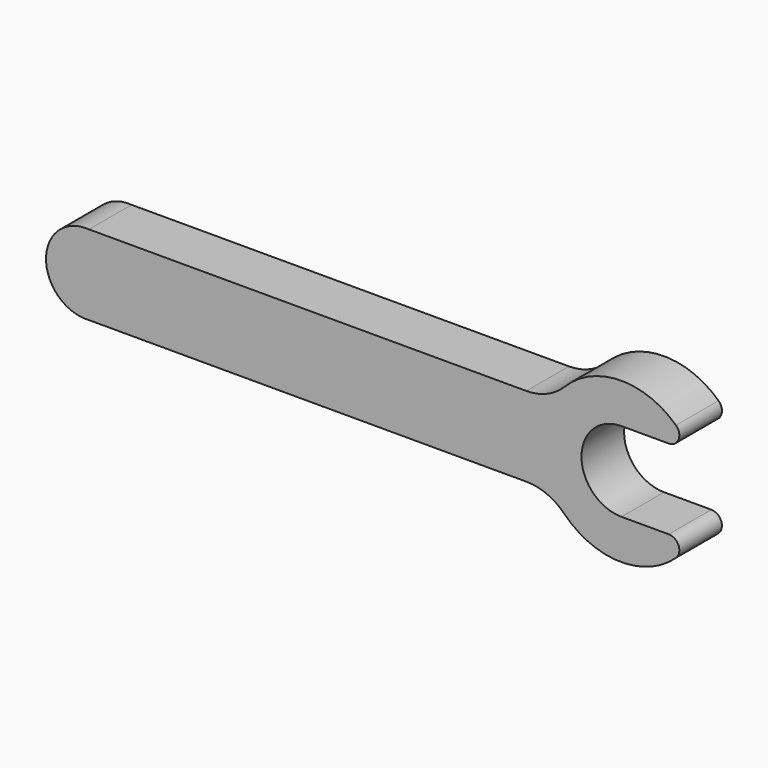
from build123d import *

# Parameters (mm, degrees)
F1_DEPTH = 6.35


with BuildPart() as f1:
    # F0 (on Front) → F1 (new body)
    with BuildSketch(Plane.XZ):
        with BuildLine():
            Line((52.162982, 4.7625), (0, 4.7625))
            ThreePointArc((0, 4.7625), (-5.123236, 0), (0, -4.7625))
            Line((0, -4.7625), (52.162982, -4.7625))
            ThreePointArc((52.162982, -4.7625), (54.622327, -5.258089), (56.697789, -6.6675))
            ThreePointArc((56.697789, -6.6675), (63.290226, -9.52269), (70.001999, -6.960577))
            ThreePointArc((70.001999, -6.960577), (70.316497, -5.566537), (69.135066, -4.7625))
            Line((69.135066, -4.7625), (63.5, -4.7625))
            ThreePointArc((63.5, -4.7625), (58.7375, 0), (63.5, 4.7625))
            Line((63.5, 4.7625), (69.135066, 4.7625))
            ThreePointArc((69.135066, 4.7625), (70.316497, 5.566537), (70.001999, 6.960577))
            ThreePointArc((70.001999, 6.960577), (63.290226, 9.52269), (56.697789, 6.6675))
            ThreePointArc((56.697789, 6.6675), (54.622327, 5.258089), (52.162982, 4.7625))
        make_face()
    extrude(amount=F1_DEPTH)


solid = f1.part
